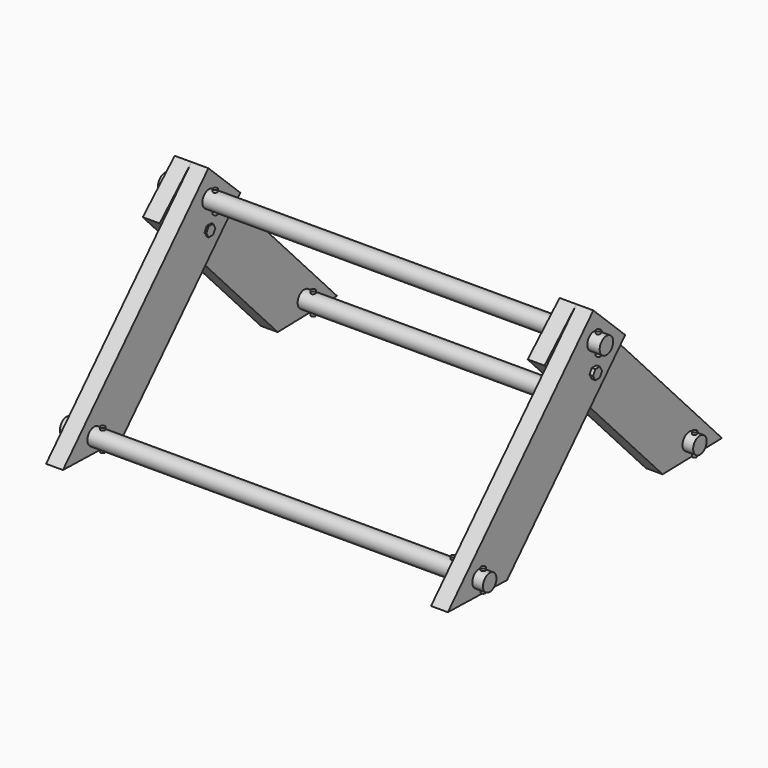
from build123d import *

# Parameters (mm, degrees)
F1_DEPTH  = 1.9
F2_ANGLE  = 180
F3_ANGLE  = 316.53
F4_ANGLE  = 316.53
F7_R      = 0.9525
F8_DEPTH  = 49.8
F11_R     = 0.95
F12_DEPTH = 47.7
F15_R     = 0.25
F16_DEPTH = 2.5
F28_DEPTH = 4.5


with BuildPart() as f1:
    # F0 (on Right) → F1 (new body)
    with BuildSketch(Plane.YZ):
        Polygon((0, 0), (0, 29.8), (-6.2, 29.8), (-6.2, 5.6), align=None)
    extrude(amount=F1_DEPTH)


with BuildPart() as f2_1:
    # F2: copy of F1
    add(f1.part.rotate(Axis((1.9, -6.2, 17.7), (0, 0, 1)), F2_ANGLE))


with BuildPart() as f2_1_1:
    # F3: moved
    add(f2_1.part.rotate(Axis((2.85, -6.2, 29.8), (1, 0, 0)), F3_ANGLE))


with BuildPart() as f1_1:
    # F4: moved
    add(f1.part.rotate(Axis((0.95, -6.2, 29.8), (-1, 0, 0)), F4_ANGLE))


with BuildPart() as f2_1_2:
    # F5: moved
    add(f2_1_1.part.moved(Location((0, 10.6, -12))))


with BuildPart() as f1_2:
    # F6: moved
    add(f1_1.part.moved(Location((0, 1.6, -12))))


with BuildPart() as f8:
    # F7 (on Right) → F8 (new body)
    with BuildSketch(Plane.YZ):
        Circle(F7_R)
    extrude(amount=F8_DEPTH)


with BuildPart() as f8_1:
    # F9: moved
    add(f8.part.moved(Location((-1.2, 0, 19))))


with BuildPart() as f10_1:
    # F10: copy of F1
    add(f1_2.part.moved(Location((43.4, 0, 0))))


with BuildPart() as f10_2:
    # F10: copy of F2_1
    add(f2_1_2.part.moved(Location((43.4, 0, 0))))


with BuildPart() as f12:
    # F11 (on Right) → F12 (new body)
    with BuildSketch(Plane.YZ):
        Circle(F11_R)
    extrude(amount=F12_DEPTH)


with BuildPart() as f12_1:
    # F13: moved
    add(f12.part.moved(Location((0.7, -16.2, 2))))


with BuildPart() as f14_1:
    # F14: copy of F12
    add(f12_1.part.moved(Location((-1.9, 32, 0))))


with BuildPart() as f16:
    # F15 (on Top) → F16 (new body)
    with BuildSketch(Plane.XY):
        Circle(F15_R)
    extrude(amount=F16_DEPTH)


with BuildPart() as f16_1:
    # F17: moved
    add(f16.part.moved(Location((-0.5, 15.8, 0.7))))


with BuildPart() as f18_1:
    # F18: copy of F16
    add(f16_1.part.moved(Location((3.4, 0, 0))))


with BuildPart() as f19_1:
    # F19: copy of F16
    add(f16_1.part.moved(Location((43.1, 0, 0))))


with BuildPart() as f19_2:
    # F19: copy of F18_1
    add(f18_1.part.moved(Location((43.1, 0, 0))))


with BuildPart() as f19_1_1:
    # F20: moved
    add(f19_1.part.moved(Location((1.6, -31.9, 0))))


with BuildPart() as f19_2_1:
    # F20: moved
    add(f19_2.part.moved(Location((1.6, -31.9, 0))))


with BuildPart() as f21_1:
    # F21: copy of F19_1
    add(f19_1_1.part.moved(Location((-42.9, 0, 0))))


with BuildPart() as f21_2:
    # F21: copy of F19_2
    add(f19_2_1.part.moved(Location((-42.9, 0, 0))))


with BuildPart() as f22_1:
    # F22: copy of F16
    add(f16_1.part.moved(Location((0, -15.8, 17))))


with BuildPart() as f23_1:
    # F23: copy of F16
    add(f16_1.part.moved(Location((43.4, 0, 0))))


with BuildPart() as f24_1:
    # F24: copy of F23_1
    add(f23_1.part.moved(Location((3, 0, 0))))


with BuildPart() as f25_1:
    # F25: copy of F22_1
    add(f22_1.part.moved(Location((5, 0, 0))))


with BuildPart() as f26_1:
    # F26: copy of F25_1
    add(f25_1.part.moved(Location((43.2, 0, 0))))


with BuildPart() as f26_2:
    # F26: copy of F22_1
    add(f22_1.part.moved(Location((43.2, 0, 0))))


with BuildPart() as f28:
    # F27 (on Right) → F28 (new body)
    with BuildSketch(Plane.YZ):
        Polygon((-0.3175426481, 9.7458610097), (0.3175426481, 9.7458610097), (0.6350852961, 10.2958610097), (0.3175426481, 10.8458610097), (-0.3175426481, 10.8458610097), (-0.6350852961, 10.2958610097), align=None)
    extrude(amount=F28_DEPTH)


with BuildPart() as f28_1:
    # F29: moved
    add(f28.part.moved(Location((-0.5, 0, 5.6))))


with BuildPart() as f30_1:
    # F30: copy of F28
    add(f28_1.part.moved(Location((43.6, 0, 0))))


solid = Compound([f2_1_2.part, f1_2.part, f8_1.part, f10_1.part, f10_2.part, f12_1.part, f14_1.part, f16_1.part, f18_1.part, f19_1_1.part, f19_2_1.part, f21_1.part, f21_2.part, f22_1.part, f23_1.part, f24_1.part, f25_1.part, f26_1.part, f26_2.part, f28_1.part, f30_1.part])
